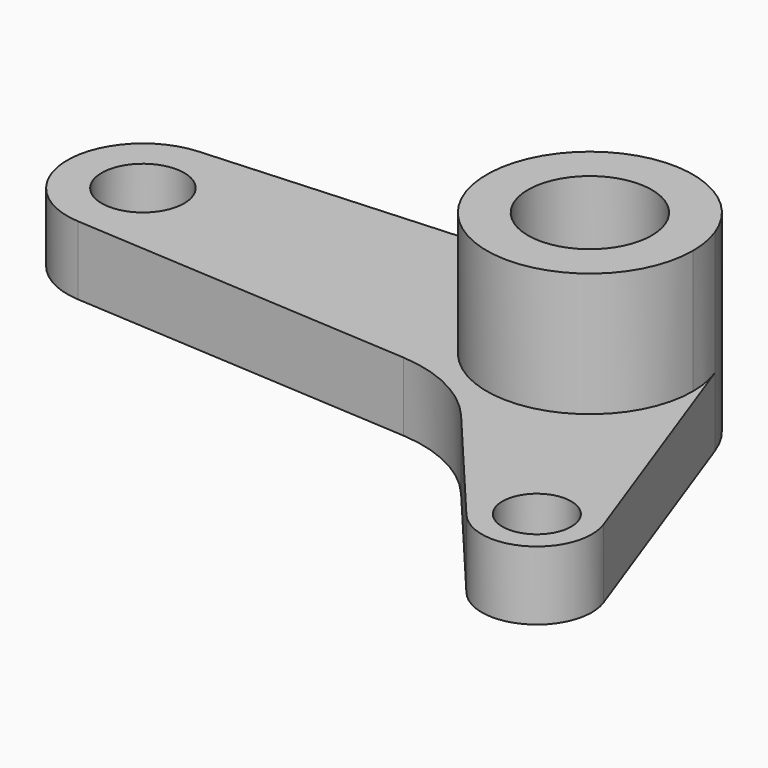
from build123d import *

# Parameters (mm, degrees)
F0_R     = 5
F0_R_2   = 6
F1_DEPTH = 10
F2_DEPTH = 28


with BuildPart() as f1:
    # F0 (on Top) → F1 (new body)
    with BuildSketch(Plane.XY):
        with BuildLine():
            ThreePointArc((4.5, -7.794229), (7.794229, -4.5), (9, 0))
            ThreePointArc((9, 0), (-7.794229, 4.5), (4.5, -7.794229))
        make_face()
        with BuildLine():
            ThreePointArc((-0.923077, 14.971571), (-10.275063, -10.928087), (15, 0))
            ThreePointArc((15, 0), (14.773901, 2.594582), (14.102419, 5.110947))
            ThreePointArc((14.102419, 5.110947), (8.22993, 12.540664), (-0.923077, 14.971571))
        make_face()
        with BuildLine():
            ThreePointArc((4.5, -7.794229), (-7.794229, 4.5), (9, 0))
            ThreePointArc((9, 0), (7.794229, -4.5), (4.5, -7.794229))
        make_face(mode=Mode.SUBTRACT)
        with BuildLine():
            ThreePointArc((14.102419, 5.110947), (14.773901, 2.594582), (15, 0))
            ThreePointArc((15, 0), (-10.275063, -10.928087), (-0.923077, 14.971571))
            Line((-0.923077, 14.971571), (-65.676923, 10.979152))
            ThreePointArc((-65.676923, 10.979152), (-76, 0), (-65.676923, -10.979152))
            Line((-65.676923, -10.979152), (-15.893218, -14.048582))
            ThreePointArc((-15.893218, -14.048582), (-8.129895, -16.147129), (-1.820762, -21.133903))
            Line((-1.820762, -21.133903), (13.87871, -39.791725))
            ThreePointArc((13.87871, -39.791725), (24, -41.569219), (27.52129, -31.915178))
            Line((27.52129, -31.915178), (14.102419, 5.110947))
        make_face()
        with Locations((20, -34.641016)):
            Circle(F0_R, mode=Mode.SUBTRACT)
        with Locations((-65, 0)):
            Circle(F0_R_2, mode=Mode.SUBTRACT)
    extrude(amount=F1_DEPTH)

    # F0 (on Top) → F2 (join)
    with BuildSketch(Plane.XY):
        with BuildLine():
            ThreePointArc((-0.923077, 14.971571), (-10.275063, -10.928087), (15, 0))
            ThreePointArc((15, 0), (14.773901, 2.594582), (14.102419, 5.110947))
            ThreePointArc((14.102419, 5.110947), (8.22993, 12.540664), (-0.923077, 14.971571))
        make_face()
        with BuildLine():
            ThreePointArc((4.5, -7.794229), (-7.794229, 4.5), (9, 0))
            ThreePointArc((9, 0), (7.794229, -4.5), (4.5, -7.794229))
        make_face(mode=Mode.SUBTRACT)
    extrude(amount=F2_DEPTH)


solid = f1.part
